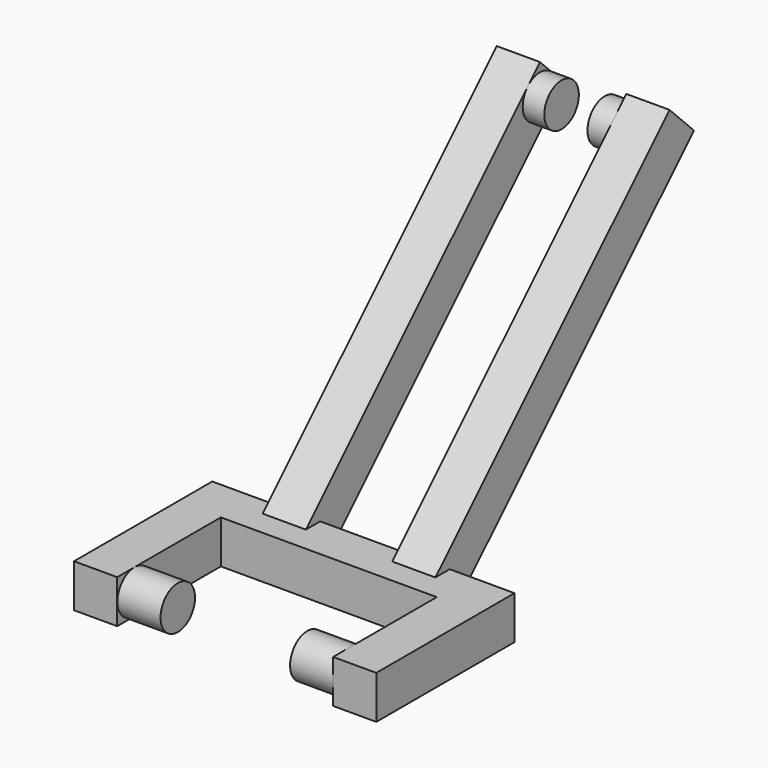
from build123d import *

# Parameters (mm, degrees)
F1_DEPTH = 10
F2_R     = 5
F3_DEPTH = 10
F7_DEPTH = 10
F8_R     = 5
F9_DEPTH = 5


with BuildPart() as f1:
    # F0 (on Top) → F1 (new body)
    with BuildSketch(Plane.XY):
        Polygon((-35, -18.6133389152), (-25, -18.6133389152), (-25, -8.6133389152), (-25, 11.3866610848), (25, 11.3866610848), (25, -8.6133389152), (25, -18.6133389152), (35, -18.6133389152), (35, 21.3866610848), (-35, 21.3866610848), align=None)
    extrude(amount=F1_DEPTH)

    # F2 (on face) → F3 (join)
    with BuildSketch(Plane.YZ.offset(-25)):
        with Locations((-13.5789485648, 5)):
            Circle(F2_R)
    extrude(amount=F3_DEPTH)

    # F4: F1 across plane


with BuildPart() as f1_1:
    add(f1.part)
    add(f1.part.mirror(Plane.YZ))

    # F6 (on offset) → F7 (join)
    with BuildSketch(Plane.YZ.offset(10)):
        Polygon((14.3155932729, 7.0710678119), (21.3866610848, 0), (92.0973392034, 70.7106781187), (85.0262713916, 77.7817459305), align=None)
    extrude(amount=F7_DEPTH)

    # F8 (on face) → F9 (join)
    with BuildSketch(Plane(origin=(10, 0, 0), x_dir=(0, -1, 0), z_dir=(-1, 0, 0))):
        with Locations((-85.0262713916, 70.7106781187)):
            Circle(F8_R)
    extrude(amount=F9_DEPTH)

    # F10: F1 across plane


with BuildPart() as f1_2:
    add(f1_1.part)
    add(f1_1.part.mirror(Plane.YZ))


solid = f1_2.part
